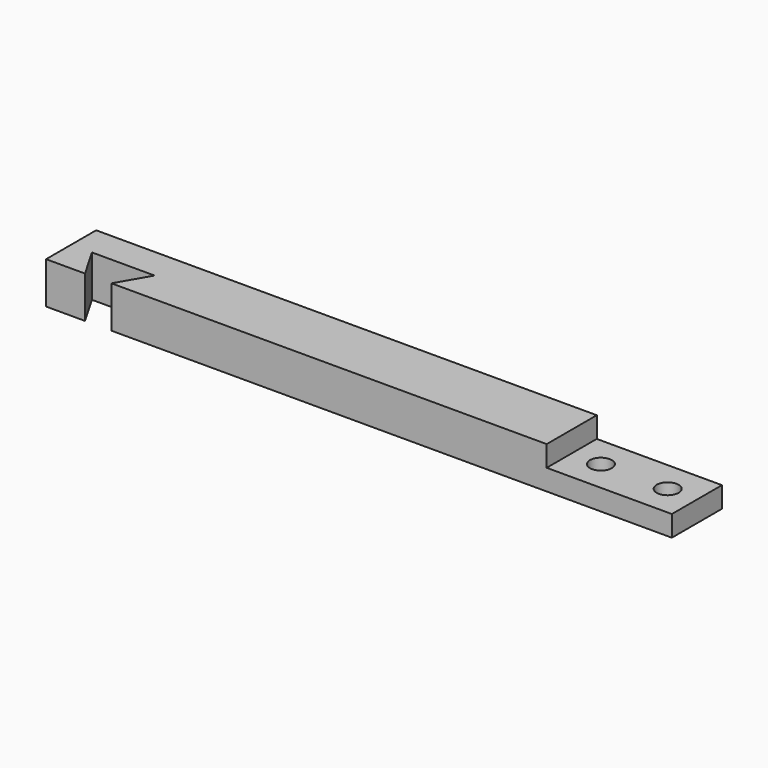
from build123d import *

# Parameters (mm, degrees)
PAD_DEPTH       = 15
SKETCH001_R     = 2.625
POCKET_DEPTH    = 5
POCKET001_DEPTH = 10


with BuildPart() as part:
    # Sketch → Pad (new body)
    with BuildSketch(Plane.XZ):
        Polygon((-68.87526, -5.227487), (-68.87526, 4.772513), (51.12474, 4.772513), (51.12474, -0.227487), (81.12474, -0.227487), (81.12474, -5.227487), align=None)
    extrude(amount=PAD_DEPTH)

    # Sketch001 (on Face4 of Pad) → Pocket (cut)
    with BuildSketch(Plane(origin=(0, 0, -0.227487), x_dir=(-1, 0, 0), z_dir=(0, 0, 1))):
        with Locations((-74.12474, 7.5)):
            Circle(SKETCH001_R)
        with Locations((-58.12474, 7.5)):
            Circle(SKETCH001_R)
    extrude(amount=-POCKET_DEPTH, mode=Mode.SUBTRACT)

    # Sketch002 (on Face3 of Pocket) → Pocket001 (cut)
    with BuildSketch(Plane(origin=(0, 0, 4.772513), x_dir=(-1, 0, 0), z_dir=(0, 0, 1))):
        Polygon((56.37526, 20.490381), (63.87526, 7.5), (48.87526, 7.5), align=None)
    extrude(amount=-POCKET001_DEPTH, mode=Mode.SUBTRACT)


solid = part.part
